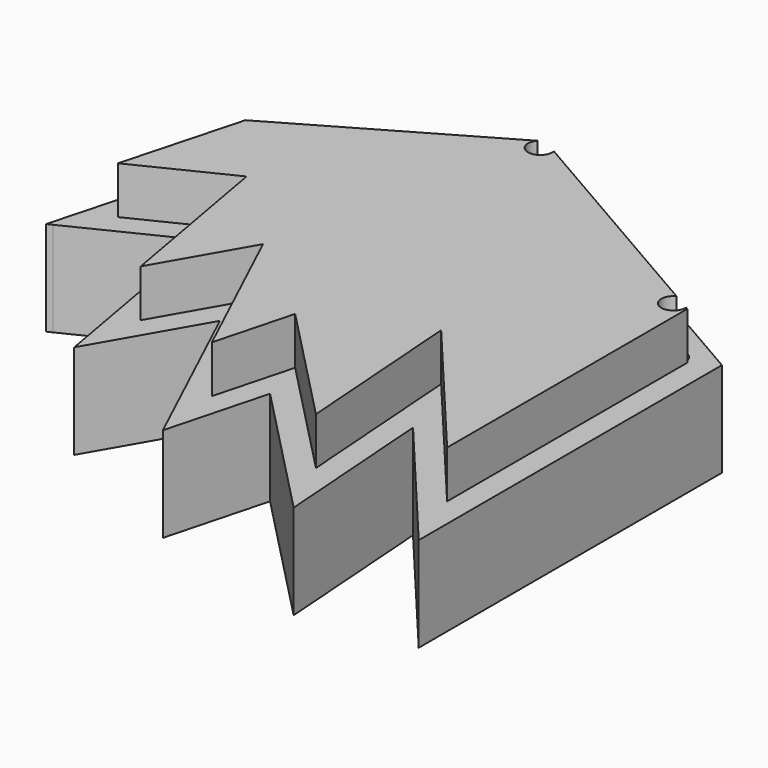
from build123d import *

# Parameters (mm, degrees)
F0_R     = 6.5405
F1_DEPTH = 76.2
F3_DEPTH = 25.4


with BuildPart() as f1:
    # F0 (on Top) → F1 (new body)
    with BuildSketch(Plane.XY):
        Polygon((-67.9690890407, 110.6476840292), (0, 76.2), (0, 203.2), (-153.9793167929, 292.1), (-274.9630657016, 222.25), (-275.7369360322, 215.9473319371), (-198.2431763687, 176.672411752), (-158.5945410949, 156.5779294016), (-113.2818150678, 133.6128067154), align=None)
        with Locations((-151.9981167929, 271.4667715498)):
            Circle(F0_R, mode=Mode.SUBTRACT)
        with Locations((-20.3835, 196.212271957)):
            Circle(F0_R, mode=Mode.SUBTRACT)
        Polygon((-198.2431763687, 176.672411752), (-275.7369360322, 215.9473319371), (-280.3801580159, 178.1313235595), (-298.267005539, 127.6204243564), (-241.3343504537, 155.5403700614), align=None)
        Polygon((-275.7369360322, 215.9473319371), (-274.9630657016, 222.25), (-300.8671202676, 126.3453202542), (-298.267005539, 127.6204243564), (-280.3801580159, 178.1313235595), align=None)
        Polygon((-189.2178803878, 103.2717895071), (-158.5945410949, 156.5779294016), (-198.2431763687, 176.672411752), (-241.3343504537, 155.5403700614), (-221.8573776706, 46.4561172643), align=None)
        Polygon((-131.5564353, 64.8183334656), (-113.2818150678, 133.6128067154), (-158.5945410949, 156.5779294016), (-189.2178803878, 103.2717895071), (-145.8874004982, 10.8696773813), align=None)
        Polygon((-59.2936250137, -9.6900026026), (-65.6310013179, 78.2159816061), (-67.9690890407, 110.6476840292), (-113.2818150678, 133.6128067154), (-131.5564353, 64.8183334656), align=None)
        Polygon((-65.6310013179, 78.2159816061), (0, 0), (0, 76.2), (-67.9690890407, 110.6476840292), align=None)
    extrude(amount=F1_DEPTH)

    # F2 (on face) → F3 (cut)
    with BuildSketch(Plane.XY.offset(76.2)):
        Polygon((0, 0), (0, 203.2), (-153.9793167929, 292.1), (-274.9630657016, 222.25), (-300.8671202676, 126.3453202542), (-241.3343504537, 155.5403700614), (-221.8573776706, 46.4561172643), (-189.2178803878, 103.2717895071), (-145.8874004982, 10.8696773813), (-131.5564353, 64.8183334656), (-59.2936250137, -9.6900026026), (-65.6310013179, 78.2159816061), align=None)
        with BuildLine():
            Line((-13.8508234279, 196.5320797972), (-12.7, 195.8676515813))
            Line((-12.7, 195.8676515813), (-12.7, 34.8929632271))
            Line((-12.7, 34.8929632271), (-81.1190261519, 116.4315834454))
            Line((-81.1190261519, 116.4315834454), (-74.4697648189, 24.1994303135))
            Line((-74.4697648189, 24.1994303135), (-138.067730519, 89.7736666719))
            Line((-138.067730519, 89.7736666719), (-149.2034024598, 47.8536335482))
            Line((-149.2034024598, 47.8536335482), (-188.0773837652, 130.7522764553))
            Line((-188.0773837652, 130.7522764553), (-215.4882373861, 83.0381201455))
            Line((-215.4882373861, 83.0381201455), (-231.7944080284, 174.363731179))
            Line((-231.7944080284, 174.363731179), (-281.2995293986, 150.0862704018))
            Line((-281.2995293986, 150.0862704018), (-264.0702576195, 213.874268841))
            Line((-264.0702576195, 213.874268841), (-156.9828667929, 275.7012027616))
            ThreePointArc((-156.9828667929, 275.7012027616), (-150.2699352174, 277.774824236), (-145.5512194367, 272.5693388853))
            Line((-145.5512194367, 272.5693388853), (-23.3728765721, 202.0296397432))
            ThreePointArc((-23.3728765721, 202.0296397432), (-17.11325, 201.8765111104), (-13.8508234279, 196.5320797972))
        make_face(mode=Mode.SUBTRACT)
    extrude(amount=-F3_DEPTH, mode=Mode.SUBTRACT)


solid = f1.part
